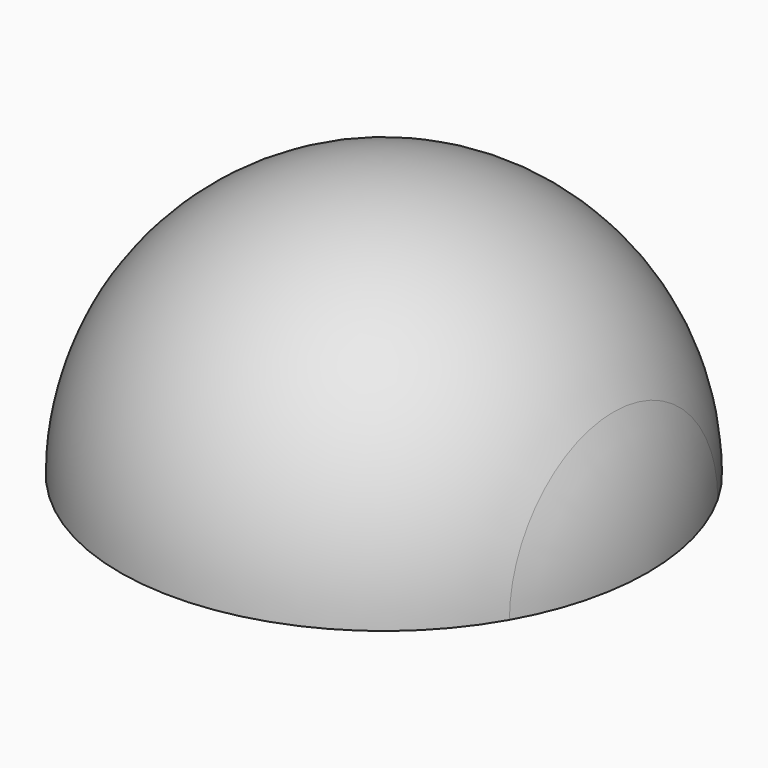
from build123d import *

# Parameters (mm, degrees)
F1_ANGLE_BACK = 90
F1_ANGLE      = 180


with BuildPart() as f1:
    # F0 (on Front) → F1 (revolve)
    with BuildSketch(Plane.XZ, mode=Mode.PRIVATE) as f1_sk:
        with BuildLine():
            Line((0, 0), (38.5369628086, 0))
            ThreePointArc((38.5369628086, 0), (37.2627472569, 9.8277754035), (33.5243638728, 19.0056446729))
            ThreePointArc((33.5243638728, 19.0056446729), (-9.8277754035, 37.2627472569), (-38.5369628086, 0))
            Line((-38.5369628086, 0), (0, 0))
        make_face()
    revolve(f1_sk.sketch.rotate(Axis((19.2684814043, 0, 0), (1, 0, 0)), -F1_ANGLE_BACK), axis=Axis((19.2684814043, 0, 0), (1, 0, 0)), revolution_arc=F1_ANGLE)


solid = f1.part
